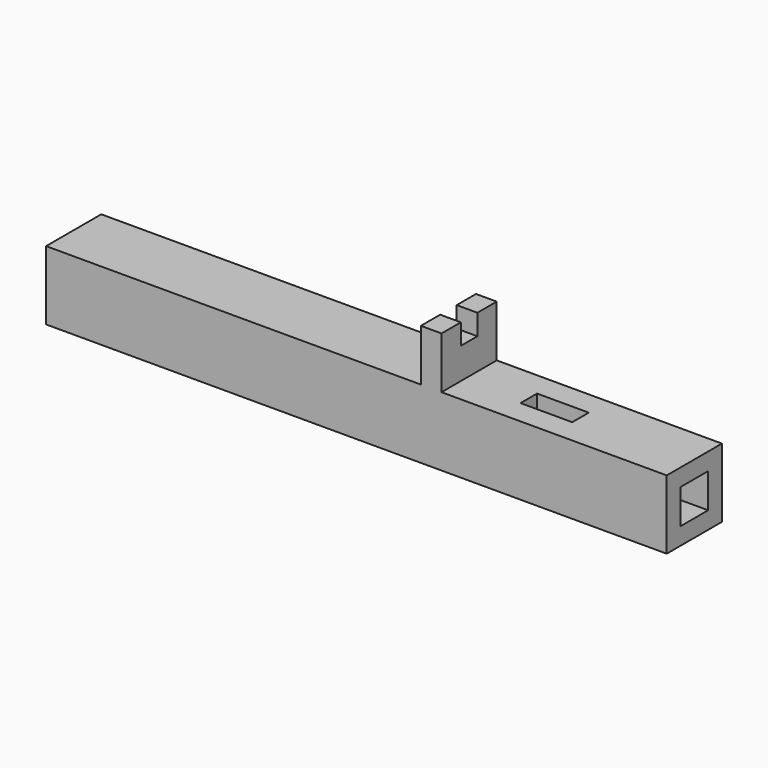
from build123d import *

# Parameters (mm, degrees)
F0_W     = 90
F0_H     = 10
F1_DEPTH = 10
F2_T     = -2.5
F3_W     = 7.5
F3_H     = 3
F4_DEPTH = 2.5
F5_W     = 3
F5_H     = 10
F6_DEPTH = 7.5
F7_W     = 3
F7_H     = 3
F8_DEPTH = 3


with BuildPart() as f1:
    # F0 (on Top) → F1 (new body)
    with BuildSketch(Plane.XY):
        with Locations((14.77346, -2.340722)):
            Rectangle(F0_W, F0_H)
    extrude(amount=F1_DEPTH)

    # F2
    f2_openings = [f1.faces().sort_by_distance(p)[0] for p in [
        (59.77346, -2.340722, 5),
        (-30.22654, -2.340722, 5),
    ]]
    offset(amount=F2_T, openings=f2_openings)

    # F3 (on face) → F4 (cut, through all)
    with BuildSketch(Plane.XY.offset(10)):
        with Locations((39.516613, -2.340722)):
            Rectangle(F3_W, F3_H)
    extrude(amount=-F4_DEPTH, mode=Mode.SUBTRACT)

    # F5 (on face) → F6 (join)
    with BuildSketch(Plane.XY.offset(10)):
        with Locations((25.61603, -2.340722)):
            Rectangle(F5_W, F5_H)
    extrude(amount=F6_DEPTH)

    # F7 (on face) → F8 (cut)
    with BuildSketch(Plane.XY.offset(17.5)):
        with Locations((25.61603, -2.340722)):
            Rectangle(F7_W, F7_H)
    extrude(amount=-F8_DEPTH, mode=Mode.SUBTRACT)


solid = f1.part
